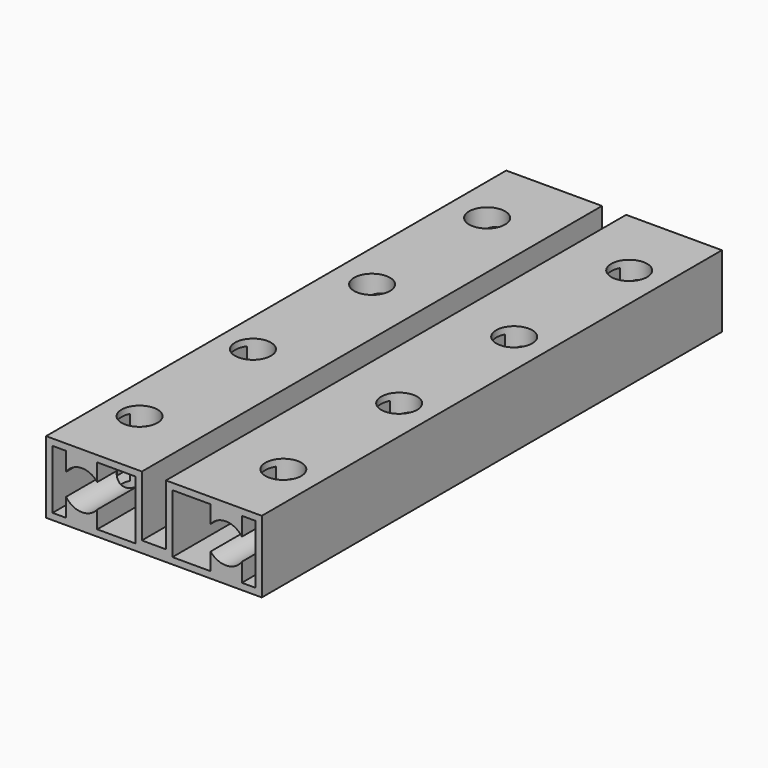
from build123d import *

# Parameters (mm, degrees)
F1_DEPTH = 64
F2_R     = 2
F3_DEPTH = 8.1


with BuildPart() as f1:
    # F0 (on Front) → F1 (new body)
    with BuildSketch(Plane.XZ):
        Polygon((-1.34, 4), (-12, 4), (-12, -4), (12, -4), (12, 4), (1.34, 4), (1.34, -2.75), (-1.34, -2.75), align=None)
        Polygon((-6.31, 3.28), (-2.06, 3.28), (-2.06, -3.28), (-6.31, -3.28), (-9.78, -3.28), (-11.28, -3.28), (-11.28, 3.28), (-9.78, 3.28), align=None, mode=Mode.SUBTRACT)
        Polygon((11.28, 3.28), (11.28, -3.28), (9.78, -3.28), (6.31, -3.28), (2.06, -3.28), (2.06, 3.28), (6.31, 3.28), (9.78, 3.28), align=None, mode=Mode.SUBTRACT)
        with BuildLine():
            Line((-6.31, 1.345177), (-6.31, 3.28))
            Line((-6.31, 3.28), (-9.78, 3.28))
            Line((-9.78, 3.28), (-9.78, 1.223601))
            ThreePointArc((-9.78, 1.223601), (-8.075632, 2.158675), (-6.31, 1.345177))
        make_face()
        with BuildLine():
            Line((-9.78, -3.28), (-6.31, -3.28))
            Line((-6.31, -3.28), (-6.31, -1.345177))
            ThreePointArc((-6.31, -1.345177), (-8.075632, -2.158675), (-9.78, -1.223601))
            Line((-9.78, -1.223601), (-9.78, -3.28))
        make_face()
        with BuildLine():
            Line((9.78, 1.223601), (9.78, 3.28))
            Line((9.78, 3.28), (6.31, 3.28))
            Line((6.31, 3.28), (6.31, 1.345177))
            ThreePointArc((6.31, 1.345177), (8.075632, 2.158675), (9.78, 1.223601))
        make_face()
        with BuildLine():
            Line((6.31, -3.28), (9.78, -3.28))
            Line((9.78, -3.28), (9.78, -1.223601))
            ThreePointArc((9.78, -1.223601), (8.075632, -2.158675), (6.31, -1.345177))
            Line((6.31, -1.345177), (6.31, -3.28))
        make_face()
    extrude(amount=F1_DEPTH)

    # F2 (on face) → F3 (cut)
    with BuildSketch(Plane.XY.offset(4)):
        with Locations((-8, -56)):
            Circle(F2_R)
        with Locations((8, -56)):
            Circle(F2_R)
        with Locations((-8.176223, -40)):
            Circle(F2_R)
        with Locations((8.085492, -40)):
            Circle(F2_R)
        with Locations((-7.726881, -24)):
            Circle(F2_R)
        with Locations((8.085492, -24)):
            Circle(F2_R)
        with Locations((-7.726881, -8)):
            Circle(F2_R)
        with Locations((8.085492, -8)):
            Circle(F2_R)
    extrude(amount=-F3_DEPTH, mode=Mode.SUBTRACT)


solid = f1.part
